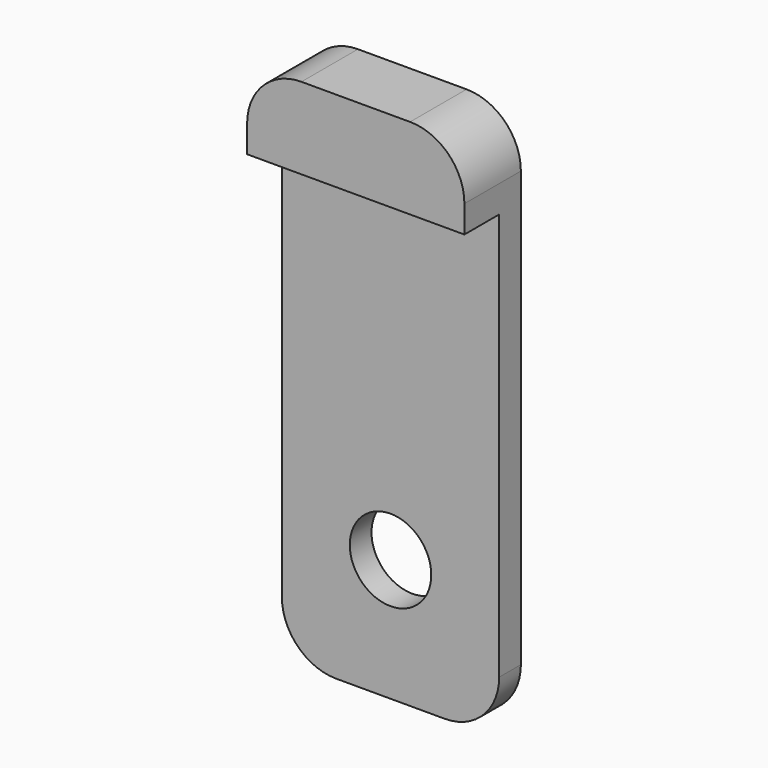
from build123d import *

# Parameters (mm, degrees)
F0_R     = 3.81
F1_DEPTH = 2.54
F2_DEPTH = 6.604


with BuildPart() as f1:
    # F0 (on Front) → F1 (new body)
    with BuildSketch(Plane.XZ):
        with BuildLine():
            ThreePointArc((-10.16, -6.35), (-8.672102, -9.942102), (-5.08, -11.43))
            Line((-5.08, -11.43), (5.08, -11.43))
            ThreePointArc((5.08, -11.43), (8.672102, -9.942102), (10.16, -6.35))
            Line((10.16, -6.35), (10.16, 31.75))
            Line((10.16, 31.75), (-10.16, 31.75))
            Line((-10.16, 31.75), (-10.16, -6.35))
        make_face()
        Circle(F0_R, mode=Mode.SUBTRACT)
    extrude(amount=F1_DEPTH)

    # F0 (on Front) → F2 (join)
    with BuildSketch(Plane.XZ):
        with BuildLine():
            Line((-10.16, 34.29), (-10.16, 31.75))
            Line((-10.16, 31.75), (10.16, 31.75))
            Line((10.16, 31.75), (10.16, 34.29))
            ThreePointArc((10.16, 34.29), (8.672102, 37.882102), (5.08, 39.37))
            Line((5.08, 39.37), (-5.08, 39.37))
            ThreePointArc((-5.08, 39.37), (-8.672102, 37.882102), (-10.16, 34.29))
        make_face()
    extrude(amount=F2_DEPTH)


solid = f1.part
